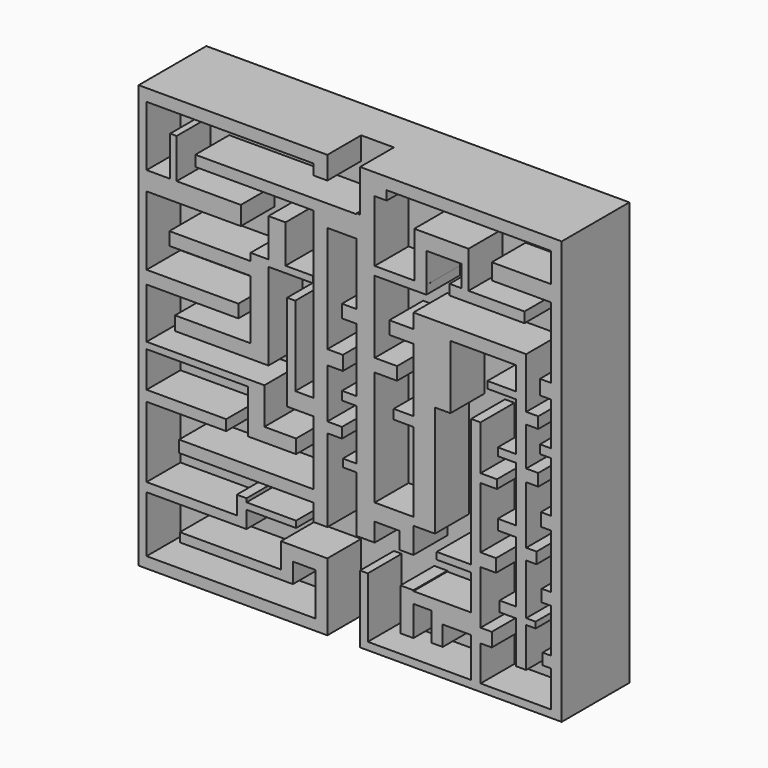
from build123d import *

# Parameters (mm, degrees)
F0_W     = 100
F0_H     = 100
F1_DEPTH = 10
F2_W     = 23.8713789731
F2_H     = 2.1283119917
F2_W_2   = 39.4767448306
F2_H_2   = 2.8564102948
F2_W_3   = 38.8662843034
F2_H_3   = 2.7906961739
F2_W_4   = 17.7034870721
F2_H_4   = 1.7732560635
F2_W_5   = 5.2906991914
F2_H_5   = 3.3113583922
F2_W_6   = 18.8206527382
F2_H_6   = 2.4968758225
F2_W_7   = 24.0064729005
F2_H_7   = 1.5365395229
F2_W_8   = 7.4906293303
F2_H_8   = 3.2651470974
F2_W_9   = 21.7016637325
F2_H_9   = 3.0730795115
F2_W_10  = 1.5365406871
F2_H_10  = 9.4113051891
F2_W_11  = 6.9186042529
F2_H_11  = 5.0872080028
F2_W_12  = 27.9546566308
F2_H_12  = 2.5355741382
F2_W_13  = 4.0334165096
F2_H_13  = 9.02717188
F2_W_14  = 19.20674555
F2_H_14  = 3.0730813742
F2_W_15  = 4.2254850268
F2_H_15  = 3.265146981
F2_W_16  = 17.8622733802
F2_W_17  = 1.9206749275
F2_H_16  = 18.8226103783
F2_W_18  = 31.7960046232
F2_H_17  = 2.7833692729
F2_W_19  = 3.4593001474
F2_H_18  = 3.0523259193
F2_W_20  = 3.6627931986
F2_H_19  = 3.3575575799
F2_H_20  = 2.0348837133
F2_W_21  = 3.4593041055
F2_H_21  = 2.4418607354
F2_W_22  = 3.2558110543
F2_H_22  = 1.8313946202
F2_W_23  = 5.9011620469
F2_H_23  = 3.9680246264
F2_W_24  = 6.7151151597
F2_H_24  = 4.6802349389
F2_W_25  = 4.2732572183
F2_H_25  = 2.6453509927
F2_W_26  = 2.6453472674
F2_H_26  = 3.2558105886
F2_W_27  = 3.6627911031
F2_H_27  = 3.0523240566
F2_W_28  = 3.8662739098
F2_H_28  = 2.0348839462
F2_W_29  = 8.1395357847
F2_H_29  = 1.6279071569
F2_W_30  = 2.0348839462
F2_W_31  = 2.2383779287
F2_H_30  = 2.8488393873
F2_W_32  = 2.4418607354
F2_W_33  = 2.645354718
F2_H_31  = 3.4593027085
F2_W_34  = 14.0407010913
F2_H_32  = 3.7936050445
F2_W_35  = 0.4069786519
F2_W_36  = 1.6279071569
F2_H_33  = 5.0872117281
F2_W_37  = 5.2906987257
F2_W_38  = 5.0872126594
F2_H_34  = 1.8480140716
F2_W_39  = 4.6802312136
F2_H_35  = 2.238372108
F2_W_40  = 5.6976731867
F2_W_41  = 0.972867012
F2_W_42  = 3.8662776351
F2_W_43  = 4.2732544243
F2_H_36  = 1.8313953478
F2_H_37  = 1.6279080883
F2_W_44  = 2.8488412499
F2_H_38  = 2.6453481987
F2_H_39  = 2.8488372918
F2_H_40  = 2.64534913
F2_W_45  = 2.2383704782
F2_H_41  = 1.4244168997
F3_DEPTH = 10


with BuildPart() as f1:
    # F0 (on Front) → F1 (new body)
    with BuildSketch(Plane.XZ):
        Rectangle(F0_W, F0_H)
    extrude(amount=F1_DEPTH)

    # F2 (on face) → F3 (join)
    with BuildSketch(Plane.XZ.offset(10)):
        Polygon((-48.1250025332, -31.9882035255), (-48.1250025332, -34.100946039), (-26.8096410255, -34.100946039), (-24.5004977514, -34.100946039), (-24.5004977514, -31.9882035255), (-24.5004977514, -30.0675295293), (-12.7865504473, -30.0675295293), (-12.7865504473, -28.5309888422), (-24.5004977514, -28.5309888422), (-24.5004977514, -27.6836510748), (-26.8096410255, -27.6836510748), (-26.8096410255, -31.9882035255), align=None)
        with Locations((-28.316504322, -40.9271240234)):
            Rectangle(F2_W, F2_H)
        Polygon((-50, -50), (-8.2412790507, -50), (-8.2412790507, -47.4127903581), (-48.1250025332, -47.4127903581), (-50, -47.4127903581), align=None)
        Polygon((-50, -47.4127903581), (-48.1250025332, -47.4127903581), (-48.1250025332, -34.100946039), (-48.1250025332, -31.9882035255), (-48.1250025332, -15.2783337981), (-48.1250025332, -12.7814579755), (-48.1250025332, -4.3304897845), (-48.1250025332, -2.7939502615), (-48.1250025332, 9.1142319143), (-48.1250025332, 12.1873114258), (-48.1250025332, 28.5130441189), (-48.1250025332, 32.9305939376), (-48.1250025332, 47.1435897052), (-48.1250025332, 50), (-50, 50), align=None)
        with Locations((-28.3866301179, 48.5717948526)):
            Rectangle(F2_W_2, F2_H_2)
        Polygon((-5.392442923, 50), (-8.6482577026, 50), (-8.6482577026, 47.1435897052), (-8.6482577026, 44.6467101574), (-5.392442923, 44.6467101574), align=None)
        Polygon((5.7994178496, 50), (2.3401179351, 50), (2.3401179351, 40.0872118771), (5.7994178496, 40.0872118771), (5.7994178496, 45.0436059386), align=None)
        Polygon((8.6482549086, 50), (5.7994178496, 50), (5.7994178496, 45.0436059386), (8.6482549086, 45.0436059386), (8.6482549086, 47.2093038261), align=None)
        with Locations((28.0813970603, 48.604651913)):
            Rectangle(F2_W_3, F2_H_3)
        Polygon((47.514539212, 22.9941867292), (50, 22.9941867292), (50, 50), (47.514539212, 50), (47.514539212, 47.2093038261), (47.514539212, 40.2906984091), (47.514539212, 36.4970933646), align=None)
        Polygon((47.514539212, -48.2267439365), (50, -48.2267439365), (50, 22.9941867292), (47.514539212, 22.9941867292), (47.514539212, 19.7383724153), (47.514539212, 16.2790697068), (47.514539212, 6.1046513729), (47.514539212, 4.0697674267), (47.514539212, -7.9360473901), (47.514539212, -10.9883733094), (47.514539212, -23.8081403077), (47.514539212, -26.656979695), (47.514539212, -37.0348840952), (47.514539212, -39.6802350879), align=None)
        Polygon((21.8749996275, -48.2267439365), (21.8749996275, -50), (50, -50), (50, -48.2267439365), (47.514539212, -48.2267439365), (30.8284908533, -48.2267439365), (28.5901147872, -48.2267439365), align=None)
        with Locations((13.0232560914, -49.1133719683)):
            Rectangle(F2_W_4, F2_H_4)
        Polygon((2.3401179351, -33.9825600386), (2.3401179351, -50), (4.1715125553, -50), (4.1715125553, -48.2267439365), (4.1715125553, -33.9825600386), align=None)
        Polygon((-8.2412790507, -50), (-5.392442923, -50), (-5.392442923, -33.9825600386), (-8.2412790507, -33.9825600386), (-8.2412790507, -37.2939184308), (-8.2412790507, -47.4127903581), align=None)
        with Locations((-10.8866286464, -35.6382392347)):
            Rectangle(F2_W_5, F2_H_5)
        Polygon((-13.5319782421, -37.2939184308), (-13.5319782421, -33.9825600386), (-16.3808148354, -33.9825600386), (-16.3808148354, -39.8629680276), (-16.3808148354, -41.9912800193), (-13.5319782421, -41.9912800193), align=None)
        with Locations((-38.7146761641, -14.0298958868)):
            Rectangle(F2_W_6, F2_H_6)
        with Locations((-36.1217660829, -3.562220023)):
            Rectangle(F2_W_7, F2_H_7)
        Polygon((-24.1185296327, -2.7939502615), (-24.1185296327, -4.3304897845), (-24.1185296327, -14.702132903), (-20.2771797776, -14.702132903), (-20.2771797776, -11.4369858056), (-20.2771797776, -2.7939502615), align=None)
        with Locations((-16.5318651125, -13.0695593543)):
            Rectangle(F2_W_8, F2_H_8)
        with Locations((-37.2741706669, 10.65077167)):
            Rectangle(F2_W_9, F2_H_9)
        Polygon((-42.5570048392, 32.9305939376), (-48.1250025332, 32.9305939376), (-48.1250025332, 28.5130441189), (-25.8471369743, 28.5130441189), (-25.8471369743, 32.9305939376), (-41.0204641521, 32.9305939376), align=None)
        with Locations((-41.7887344956, 37.6362465322)):
            Rectangle(F2_W_10, F2_H_10)
        Polygon((5.7994178496, 40.0872118771), (2.3401179351, 40.0872118771), (1.5261613298, 40.0872118771), (1.5261613298, 39.8837216198), (1.5261613298, 34.796513617), (1.5261613298, 20.1453492045), (1.5261613298, 17.0930232853), (1.5261613298, 2.0348837133), (1.5261613298, 0), (1.5261613298, -12.0058143511), (1.5261613298, -13.8372089714), (1.5261613298, -27.0639564842), (5.7994178496, -27.0639564842), (5.7994178496, -22.6889550686), (5.7994178496, -18.7209304422), (5.7994178496, 8.343023248), (5.7994178496, 11.3953491673), (5.7994178496, 28.4883733839), (5.7994178496, 30.5232573301), align=None)
        with Locations((-1.9331407966, 37.3401176184)):
            Rectangle(F2_W_11, F2_H_11)
        Polygon((-5.392442923, 34.796513617), (-5.392442923, 39.8837216198), (-8.6482577026, 39.8837216198), (-8.6482577026, 37.3481474817), (-8.6482577026, -1.6415454447), (-8.6482577026, -5.4828948341), (-8.6482577026, -20.6562224776), (-8.6482577026, -23.4395917505), (-8.6482577026, -27.4709295481), (-5.392442923, -27.4709295481), (-5.392442923, -7.9360473901), (-5.392442923, -5.4941866547), (-5.392442923, 6.2063960359), (-5.392442923, 9.5639536157), align=None)
        with Locations((-22.625586018, 38.6159345508)):
            Rectangle(F2_W_12, F2_H_12)
        Polygon((-8.7531330064, 22.1748203039), (-8.7531330064, 23.7113572657), (-15.2834262699, 23.7113572657), (-19.3168427795, 23.7113572657), (-19.3168427795, 22.1748203039), align=None)
        with Locations((-17.3001345247, 28.2249432057)):
            Rectangle(F2_W_13, F2_H_13)
        Polygon((-19.3168427795, 22.1748203039), (-19.3168427795, 23.7113572657), (-23.5423278064, 23.7113572657), (-23.5423278064, 21.9827517867), (-23.5423278064, 18.9096704125), (-23.5423278064, 4.8887482844), (-19.3168427795, 4.8887482844), align=None)
        with Locations((-33.1457005814, 20.4462110996)):
            Rectangle(F2_W_14, F2_H_14)
        with Locations((-21.4295852929, 3.2561747939)):
            Rectangle(F2_W_15, F2_H_15)
        with Locations((-32.4734644964, 3.2561747939)):
            Rectangle(F2_W_16, F2_H_15)
        Polygon((-8.6482577026, -5.4828948341), (-8.6482577026, -1.6415454447), (-12.9786152393, -1.6415454447), (-14.8992901668, -1.6415454447), (-14.8992901668, -5.4828948341), align=None)
        with Locations((-13.938952703, 7.7697597444)):
            Rectangle(F2_W_17, F2_H_16)
        with Locations((-24.5462600142, -22.047907114)):
            Rectangle(F2_W_18, F2_H_17)
        with Locations((-0.2034887439, 18.6191862449)):
            Rectangle(F2_W_19, F2_H_18)
        with Locations((-3.5610463237, 7.8851748258)):
            Rectangle(F2_W_20, F2_H_19)
        with Locations((-0.2034887439, 1.0174418567)):
            Rectangle(F2_W_19, F2_H_20)
        with Locations((-3.6627908703, -6.7151170224)):
            Rectangle(F2_W_21, F2_H_21)
        with Locations((-0.1017441973, -12.9215116613)):
            Rectangle(F2_W_22, F2_H_22)
        with Locations((8.7499988731, -20.7049427554)):
            Rectangle(F2_W_23, F2_H_23)
        Polygon((14.9563951418, -18.7209304422), (11.7005798966, -18.7209304422), (11.7005798966, -22.6889550686), (11.7005798966, -26.656979695), (14.9563951418, -26.656979695), (14.9563951418, -20.5689445138), align=None)
        Polygon((28.5901147872, -38.8662815094), (28.5901147872, -48.2267439365), (30.8284908533, -48.2267439365), (30.8284908533, -39.8837216198), (30.4215122014, -39.8837216198), (30.4215122014, -36.6279110312), (30.8284908533, -36.6279110312), (30.8284908533, -24.0116287023), (30.8284908533, -20.9593046457), (30.8284908533, -6.5116281621), (30.8284908533, -4.4767442159), (30.8284908533, 6.1046513729), (28.5901147872, 6.1046513729), (28.5901147872, -24.2151170969), (28.5901147872, -25.8430242538), (28.5901147872, -34.1860465705), align=None)
        with Locations((25.2325572073, -36.52616404)):
            Rectangle(F2_W_24, F2_H_24)
        Polygon((21.8749996275, -43.5465164483), (21.8749996275, -38.8662815094), (21.8749996275, -34.1860465705), (19.2296523601, -34.1860465705), (19.2296523601, -36.8313975632), (19.2296523601, -43.5465164483), align=None)
        with Locations((17.0930237509, -35.5087220669)):
            Rectangle(F2_W_25, F2_H_25)
        Polygon((14.9563951418, -36.8313975632), (14.9563951418, -34.1860465705), (14.9563951418, -33.9825600386), (11.9040692225, -33.9825600386), (11.9040692225, -43.9534932375), (14.9563951418, -43.9534932375), align=None)
        with Locations((32.151164487, -38.2558163255)):
            Rectangle(F2_W_26, F2_H_26)
        with Locations((32.6598864049, -22.485466674)):
            Rectangle(F2_W_27, F2_H_27)
        with Locations((32.7616278082, -5.494186189)):
            Rectangle(F2_W_28, F2_H_28)
        with Locations((24.5203468949, -25.0290706754)):
            Rectangle(F2_W_29, F2_H_29)
        with Locations((46.4970972389, -38.3575595915)):
            Rectangle(F2_W_30, F2_H_25)
        with Locations((46.3953502476, -25.2325600013)):
            Rectangle(F2_W_31, F2_H_30)
        with Locations((46.2936088443, -9.4622103497)):
            Rectangle(F2_W_32, F2_H_18)
        with Locations((46.191861853, 5.0872093998)):
            Rectangle(F2_W_33, F2_H_28)
        with Locations((46.191861853, 18.0087210611)):
            Rectangle(F2_W_33, F2_H_31)
        with Locations((40.4941886663, 38.3938958868)):
            Rectangle(F2_W_34, F2_H_32)
        with Locations((30.6250015274, -38.2558163255)):
            Rectangle(F2_W_35, F2_H_26)
        Polygon((15.1598844677, 30.5232573301), (5.7994178496, 30.5232573301), (5.7994178496, 28.4883733839), (15.1598844677, 28.4883733839), (15.1598844677, 28.5021420568), align=None)
        Polygon((18.008723855, 30.5232573301), (15.1598844677, 30.5232573301), (15.1598844677, 28.5021420568), (18.0092994124, 28.5021420568), (18.0092994124, 30.5232573301), align=None)
        Polygon((15.1598844677, 41.3081422448), (15.1598844677, 30.5232573301), (18.008723855, 30.5232573301), (18.008723855, 37.6453511417), (18.008723855, 41.3081422448), align=None)
        Polygon((18.008723855, 41.3081422448), (18.008723855, 37.6453511417), (26.3517443091, 37.6453511417), (27.979651466, 37.6453511417), (27.979651466, 41.3081422448), align=None)
        with Locations((27.1656978875, 35.1017452776)):
            Rectangle(F2_W_36, F2_H_33)
        Polygon((27.979651466, 32.5581394136), (26.3517443091, 32.5581394136), (23.5029049218, 32.5581394136), (23.5029049218, 30.1162805408), (41.2063971162, 30.1162805408), (41.2063971162, 32.5581394136), align=None)
        with Locations((8.4447672125, 9.8691862077)):
            Rectangle(F2_W_37, F2_H_18)
        with Locations((17.5000014715, -19.644937478)):
            Rectangle(F2_W_38, F2_H_34)
        Polygon((14.9563951418, 0), (14.9563951418, -18.7209304422), (20.0436078012, -18.7209304422), (20.0436078012, 5.6976745836), (14.9563951418, 5.6976745836), (14.9563951418, 2.238372108), align=None)
        with Locations((12.616279535, 1.119186054)):
            Rectangle(F2_W_39, F2_H_35)
        Polygon((14.9563951418, 5.6976745836), (20.0436078012, 5.6976745836), (23.7063970417, 5.6976745836), (23.7063970417, 20.7558143884), (23.7063970417, 23.8081403077), (14.9563951418, 23.8081403077), (14.9563951418, 20.3488375992), (14.9563951418, 17.2965116799), align=None)
        with Locations((12.1075585485, 18.8226746395)):
            Rectangle(F2_W_40, F2_H_18)
        Polygon((23.7063970417, 23.8081403077), (23.7063970417, 20.7558143884), (39.17151317, 20.7558143884), (41.6133739054, 20.7558143884), (41.6133739054, 23.8081403077), align=None)
        Polygon((41.6133739054, 20.7558143884), (39.17151317, 20.7558143884), (39.17151317, 15.261628665), (39.17151317, 13.6337205768), (39.17151317, 2.238372108), (39.17151317, 0.4069767601), (39.17151317, -12.616279535), (39.17151317, -15.0581402704), (39.17151317, -29.505815357), (40.144380182, -29.505815357), (40.144380182, -31.9476760924), (39.17151317, -31.9476760924), (39.17151317, -41.9186092913), (41.6133739054, -41.9186092913), (41.6133739054, -32.5581394136), (41.6133739054, -31.1337225139), (41.6133739054, -19.1279072315), (41.6133739054, -16.4825581014), (41.6133739054, -2.8488372918), (41.6133739054, 0), (41.6133739054, 9.1569777578), (41.6133739054, 11.8023259565), align=None)
        with Locations((39.657946676, -30.7267457247)):
            Rectangle(F2_W_41, F2_H_21)
        with Locations((37.2383743525, -30.7267457247)):
            Rectangle(F2_W_42, F2_H_21)
        with Locations((37.0348859578, -13.8372099027)):
            Rectangle(F2_W_43, F2_H_21)
        with Locations((37.0348859578, 1.322674434)):
            Rectangle(F2_W_43, F2_H_36)
        with Locations((35.8139555901, 14.4476746209)):
            Rectangle(F2_W_24, F2_H_37)
        with Locations((43.0377945304, 10.4796518572)):
            Rectangle(F2_W_44, F2_H_38)
        with Locations((43.0377945304, -1.4244186459)):
            Rectangle(F2_W_44, F2_H_39)
        with Locations((42.8343042731, -17.8052326664)):
            Rectangle(F2_W_32, F2_H_40)
        with Locations((42.7325591445, -31.8459309638)):
            Rectangle(F2_W_45, F2_H_41)
    extrude(amount=F3_DEPTH)


solid = f1.part
